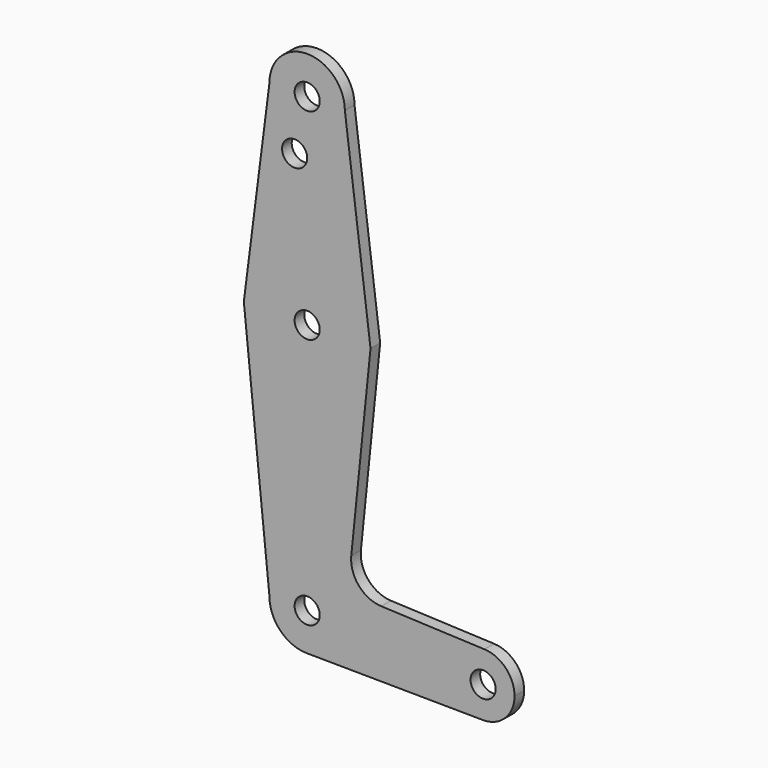
from build123d import *

# Parameters (mm, degrees)
F0_R     = 3.175
F1_DEPTH = 3.048


with BuildPart() as f1:
    # F0 (on Front) → F1 (new body)
    with BuildSketch(Plane.XZ):
        with BuildLine():
            ThreePointArc((-9.525, 50.8), (0, 41.275), (9.525, 50.8))
            ThreePointArc((9.525, 50.8), (0, 60.325), (-9.525, 50.8))
        make_face()
        with Locations((0, 50.8)):
            Circle(F0_R, mode=Mode.SUBTRACT)
        with BuildLine():
            Line((15.7474568668, 2.0082896276), (9.525, 50.8))
            ThreePointArc((9.525, 50.8), (0, 41.275), (-9.525, 50.8))
            Line((-9.525, 50.8), (-15.7474568676, 2.0082896216))
            ThreePointArc((-15.7474568676, 2.0082896216), (-3e-09, 15.875), (15.7474568668, 2.0082896276))
        make_face()
        with Locations((-3.1658636872, 37.126943469)):
            Circle(F0_R, mode=Mode.SUBTRACT)
        with BuildLine():
            Line((16.0035761028, 0), (15.7474568668, 2.0082896276))
            ThreePointArc((15.7474568668, 2.0082896276), (15.8430821301, 1.0061677891), (15.875, 0))
            ThreePointArc((15.875, 0), (-1.006167786, -15.8430821303), (-15.7474568676, 2.0082896216))
            Line((-15.7474568676, 2.0082896216), (-16.0035761028, 0))
            Line((-16.0035761028, 0), (-9.525, -63.5))
            ThreePointArc((-9.525, -63.5), (0, -53.975), (9.525, -63.5))
            ThreePointArc((9.525, -63.5), (6.7351920908, -70.2351920908), (0, -73.025))
            Line((0, -73.025), (44.3081298943, -73.4210000743))
            ThreePointArc((44.3081298943, -73.4210000743), (36.5160574501, -65.2471509719), (44.7833294082, -57.5542700748))
            Line((44.7833294082, -57.5542700748), (18.7159772944, -56.4586244916))
            ThreePointArc((18.7159772944, -56.4586244916), (13.0394364985, -53.7193525615), (11.1406203433, -47.7092591077))
            Line((11.1406203433, -47.7092591077), (16.0035761028, 0))
        make_face()
        with BuildLine():
            ThreePointArc((15.875, 0), (15.8430821301, 1.0061677891), (15.7474568668, 2.0082896276))
            ThreePointArc((15.7474568668, 2.0082896276), (-3e-09, 15.875), (-15.7474568676, 2.0082896216))
            ThreePointArc((-15.7474568676, 2.0082896216), (-1.006167786, -15.8430821303), (15.875, 0))
        make_face()
        Circle(F0_R, mode=Mode.SUBTRACT)
        with BuildLine():
            ThreePointArc((9.525, -63.5), (0, -53.975), (-9.525, -63.5))
            ThreePointArc((-9.525, -63.5), (-6.7351920908, -70.2351920908), (0, -73.025))
            ThreePointArc((0, -73.025), (6.7351920908, -70.2351920908), (9.525, -63.5))
        make_face()
        with Locations((0, -63.5)):
            Circle(F0_R, mode=Mode.SUBTRACT)
        with BuildLine():
            ThreePointArc((52.3875, -65.4847680261), (50.1792978814, -59.9912216272), (44.7833294082, -57.5542700748))
            ThreePointArc((44.7833294082, -57.5542700748), (36.5160574501, -65.2471509719), (44.3081298943, -73.4210000743))
            Line((44.3081298943, -73.4210000743), (44.45, -73.4222680261))
            ThreePointArc((44.45, -73.4222680261), (50.0626600757, -71.0974281018), (52.3875, -65.4847680261))
        make_face()
        with Locations((44.45, -65.4847680261)):
            Circle(F0_R, mode=Mode.SUBTRACT)
        with BuildLine():
            Line((44.45, -73.4222680261), (44.3081298943, -73.4210000743))
            ThreePointArc((44.3081298943, -73.4210000743), (44.3790621142, -73.4219510318), (44.45, -73.4222680261))
        make_face()
    extrude(amount=F1_DEPTH)


solid = f1.part
